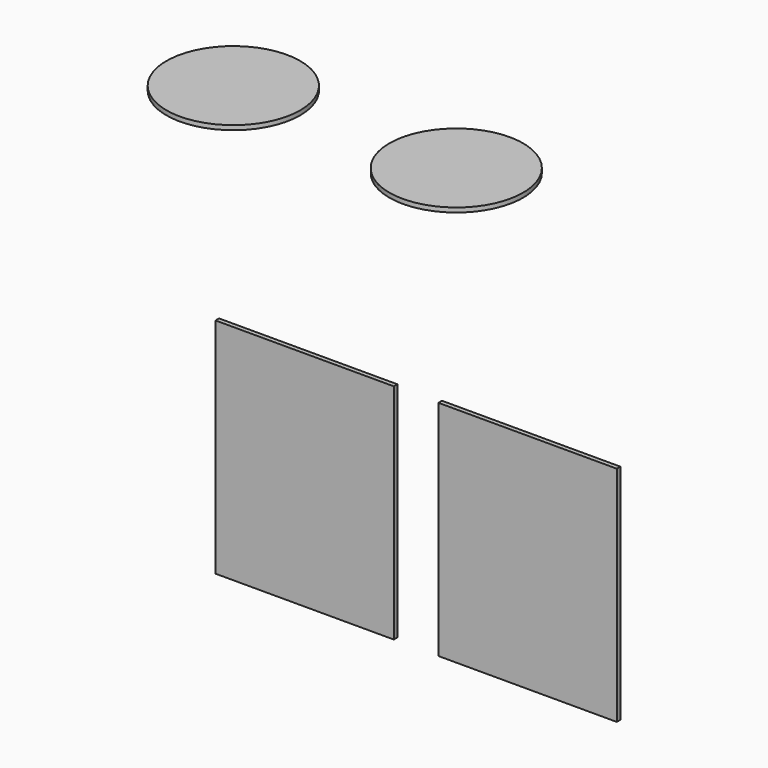
from build123d import *

# Parameters (mm, degrees)
SKETCH007_W  = 4
SKETCH007_H  = 5
PAD005_DEPTH = 0.1
SKETCH008_R  = 1.5
PAD006_DEPTH = 0.1


with BuildPart() as part:
    # Sketch007 (on DatumPlane) → Pad005 (new body)
    with BuildSketch(Plane(origin=(0, 3, 6), x_dir=(-1, 0, 0), z_dir=(0, 1, 0))):
        with Locations((2.5, -6.5)):
            Rectangle(SKETCH007_W, SKETCH007_H)
    pad005 = extrude(amount=PAD005_DEPTH)

    # Mirrored: Pad005 across Sketch007 V_Axis
    add(pad005.mirror(Plane(origin=(0, 3, 6), x_dir=(0, 1, 0), z_dir=(-1, 0, 0))))

    # Sketch008 (on DatumPlane) → Pad006 (join)
    with BuildSketch(Plane.XY.offset(8)):
        with Locations((-2.5, 1)):
            Circle(SKETCH008_R)
    pad006 = extrude(amount=PAD006_DEPTH)

    # Mirrored001: Pad006 across Sketch008 V_Axis
    add(pad006.mirror(Plane(origin=(0, 0, 8), x_dir=(0, 0, 1), z_dir=(1, 0, 0))))


solid = part.part
